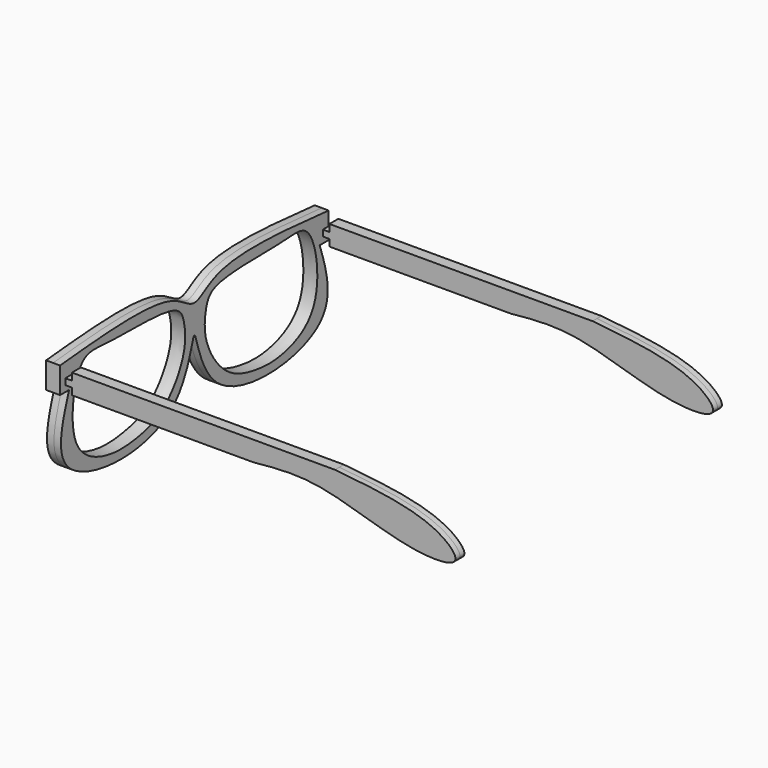
from build123d import *

# Parameters (mm, degrees)
F1_DEPTH = 1
F5_DEPTH = 1.25
F9_DEPTH = 72.60917


with BuildPart() as f1:
    # F0 (on Front) → F1 (new body, symmetric)
    with BuildSketch(Plane.XZ):
        with BuildLine():
            Line((-30.174251756, 1.2062735993), (-30.174251756, 0))
            Line((-30.174251756, 0), (2.3211173062, 0))
            add(Edge.make_bspline(
                [(16.8441893544, 3.5662727868), (23.6019558205, 2.885131836), (33.9524180251, 1.8418694352), (40.6447818836, -4.6867421893), (29.4769401026, -5.0961041553), (14.272677484, 1.1863903468), (6.0317804343, 0.3683447893), (2.3211173062, 0)],
                knots=[0, 0, 0, 0, 0.2532832779, 0.3879386788, 0.5487089183, 0.7967952801, 1, 1, 1, 1], degree=3))
            Line((16.8441893544, 3.5662727868), (-30.174251756, 3.5662727868))
            Line((-30.174251756, 3.5662727868), (-30.174251756, 2.2955040203))
            Line((-30.174251756, 2.2955040203), (-31.354251756, 2.2955040203))
            Line((-31.354251756, 2.2955040203), (-31.354251756, 1.2062735993))
            Line((-31.354251756, 1.2062735993), (-30.174251756, 1.2062735993))
        make_face()
    extrude(amount=F1_DEPTH, both=True)


with BuildPart() as f2_1:
    # F2: instance of F1
    add(f1.part.mirror(Plane(origin=(6.2768743247, -1, 0.8425026483), x_dir=(1, 0, 0), z_dir=(0, -1, 0))))


with BuildPart() as f2_1_1:
    # F3: moved
    add(f2_1.part.moved(Location((0, 50.13192, 0))))


with BuildPart() as f5:
    # F4 (on Right) → F5 (new body, symmetric)
    with BuildSketch(Plane.YZ):
        with BuildLine():
            Line((53.3973998111, 23.6164352365), (53.3973998111, 28.2766313784))
            add(Edge.make_bspline(
                [(53.3973998111, 28.2766313784), (43.4361421349, 29.1936697324), (28.7957301873, 30.5414733643), (23.3973998111, 24.4779657923), (17.9990694348, 30.5414733643), (3.3586574872, 29.1936697324), (-6.6026001889, 28.2766313784)],
                knots=[0, 0, 0, 0, 0.3401973152, 0.5, 0.6598026848, 1, 1, 1, 1], degree=3))
            Line((-6.6026001889, 28.2766313784), (-6.6026001889, 23.6164352365))
            Line((-6.6026001889, 23.6164352365), (-4.6026001889, 23.6164352365))
            add(Edge.make_bspline(
                [(51.3973998111, 23.6164352365), (52.9487811881, 18.9768636833), (56.627106664, 7.9764388399), (25.2702029081, 5.824783358), (23.3973998111, 26.9414349498), (21.524596714, 5.824783358), (-9.8323070419, 7.9764388399), (-6.153981566, 18.9768636833), (-4.6026001889, 23.6164352365)],
                knots=[0, 0, 0, 0, 0.1512202085, 0.358543137, 0.5, 0.641456863, 0.8487797915, 1, 1, 1, 1], degree=3))
            Line((51.3973998111, 23.6164352365), (53.3973998111, 23.6164352365))
        make_face()
    extrude(amount=F5_DEPTH, both=True)


with BuildPart() as f5_1:
    # F6: moved
    add(f5.part.moved(Location((-33.23082, -4.17263, -24.02908))))

    # F8 (on Right) → F9 (cut)
    with BuildSketch(Plane.YZ):
        with BuildLine():
            add(Edge.make_bspline(
                [(16.8610401452, -0.0175764271), (16.5894733362, 1.0708497426), (15.3836835282, 3.823106158), (-0.1516398066, 3.0708605215), (-7.1799649482, 4.6214824667), (-9.5144907522, -11.0293303408), (0.0138191568, -14.7082291027), (5.9563672206, -14.3620685577), (12.822156487, -12.7326280271), (17.5812558052, -5.2319773883), (17.1976335285, -1.36662585), (16.8610401452, -0.0175764271)],
                knots=[0, 0, 0, 0, 0.0726502403, 0.2292989865, 0.3294595924, 0.4699359978, 0.5887189184, 0.688131282, 0.7930068823, 0.9099536859, 1, 1, 1, 1], degree=3))
        make_face()
        with BuildLine():
            add(Edge.make_bspline(
                [(21.8610401452, 0), (22.134362108, 1.0868917744), (23.3456244839, 3.8099635491), (38.8736910908, 3.0732821109), (45.902176597, 4.6213370686), (48.2358540905, -11.0327903644), (38.7103173043, -14.6977498705), (32.7545939724, -14.3949140454), (25.9271732178, -12.5937307756), (21.1316504035, -5.2495789121), (21.5209385457, -1.3524475931), (21.8610401452, 0)],
                knots=[0, 0, 0, 0, 0.0725146556, 0.2292067085, 0.329395005, 0.4699102469, 0.5887260073, 0.6881658547, 0.7933230286, 0.9097681354, 1, 1, 1, 1], degree=3))
        make_face()
    extrude(amount=-F9_DEPTH, mode=Mode.SUBTRACT)


with BuildPart() as f1_1:
    # F7: moved
    add(f1.part.moved(Location((0, -9.39365, 0))))


solid = Compound([f2_1_1.part, f5_1.part, f1_1.part])
